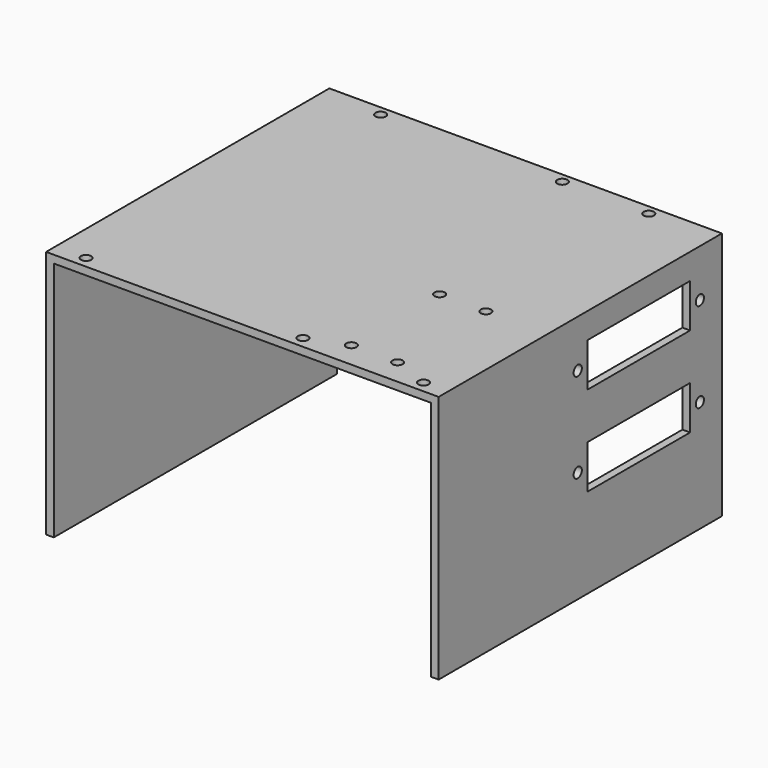
from build123d import *

# Parameters (mm, degrees)
F1_DEPTH = 69
F2_R     = 2
F3_DEPTH = 3
F4_R     = 2
F5_DEPTH = 3
F7_DEPTH = 3


with BuildPart() as f1:
    # F0 (on Front) → F1 (new body, symmetric)
    with BuildSketch(Plane.XZ):
        Polygon((-76.5, 0), (-73.5, 0), (-73.5, 94), (0, 94), (73.5, 94), (73.5, 0), (76.5, 0), (76.5, 97), (0, 97), (-76.5, 97), align=None)
    extrude(amount=F1_DEPTH, both=True)

    # F2 (on face) → F3 (cut, through all)
    with BuildSketch(Plane.YZ.offset(76.5)):
        Polygon((53.5, 87), (28.5, 87), (3.5, 87), (3.5, 70), (28.5, 70), (53.5, 70), align=None)
        with Locations((-1.25, 78.5)):
            Circle(F2_R)
        with Locations((58.25, 78.5)):
            Circle(F2_R)
        with Locations((-1.25, 43.5)):
            Circle(F2_R)
        Polygon((28.5, 52), (3.5, 52), (3.5, 35), (28.5, 35), (53.5, 35), (53.5, 52), align=None)
        with Locations((58.25, 43.5)):
            Circle(F2_R)
    extrude(amount=-F3_DEPTH, mode=Mode.SUBTRACT)

    # F4 (on face) → F5 (cut, through all)
    with BuildSketch(Plane.XY.offset(97)):
        with Locations((-53.5, 65.25)):
            Circle(F4_R)
        with Locations((17.3, 65.25)):
            Circle(F4_R)
        with Locations((51, 65.25)):
            Circle(F4_R)
        with Locations((-64.5, -64.5)):
            Circle(F4_R)
        with Locations((20, -64.5)):
            Circle(F4_R)
        with Locations((67, -64.5)):
            Circle(F4_R)
        with Locations((34.5, -16)):
            Circle(F4_R)
        with Locations((52.5, -16)):
            Circle(F4_R)
        with Locations((52.5, -59)):
            Circle(F4_R)
        with Locations((34.5, -59)):
            Circle(F4_R)
    extrude(amount=-F5_DEPTH, mode=Mode.SUBTRACT)

    # F6 (on face) → F7 (join)
    with BuildSketch(Plane(origin=(0, 69, 0), x_dir=(-1, 0, 0), z_dir=(0, 1, 0))):
        with BuildLine():
            Line((-61.5, 97), (-76.5, 97))
            Line((-76.5, 97), (-76.5, 77))
            Line((-76.5, 77), (-68.5, 77))
            ThreePointArc((-68.5, 77), (-63.5502525317, 79.0502525317), (-61.5, 84))
            Line((-61.5, 84), (-61.5, 97))
        make_face()
    extrude(amount=-F7_DEPTH)


solid = f1.part
